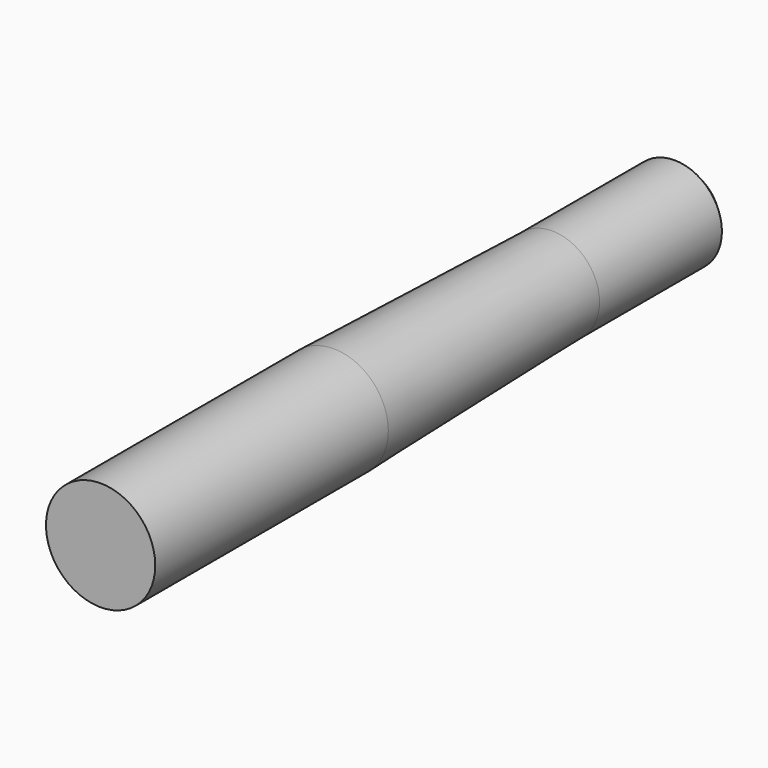
from build123d import *

# Parameters (mm, degrees)
F0_R     = 15
F1_DEPTH = 150
F2_R     = 15
F2_R_2   = 13
F3_DEPTH = 45
F6_R     = 15
F7_DEPTH = 50


with BuildPart() as f1:
    # F0 (on Front) → F1 (new body)
    with BuildSketch(Plane.XZ):
        Circle(F0_R)
    extrude(amount=F1_DEPTH)

    # F2 (on face) → F3 (cut)
    with BuildSketch(Plane(origin=(0, 0, 0), x_dir=(-1, 0, 0), z_dir=(0, 1, 0))):
        Circle(F2_R)
        Circle(F2_R_2, mode=Mode.SUBTRACT)
    extrude(amount=-F3_DEPTH, mode=Mode.SUBTRACT)

    # F4 (on Top) → F5 (revolve, cut)
    with BuildSketch(Plane.XY):
        Polygon((15, -45), (13, -45), (15, -120), align=None)
        Polygon((13, 0), (10, 0), (13, -3), align=None)
    revolve(axis=Axis((0, 0, 0), (0, 1, 0)), mode=Mode.SUBTRACT)

    # F6 (on face) → F7 (join)
    with BuildSketch(Plane.XZ.offset(150)):
        Circle(F6_R)
    extrude(amount=F7_DEPTH)


solid = f1.part
